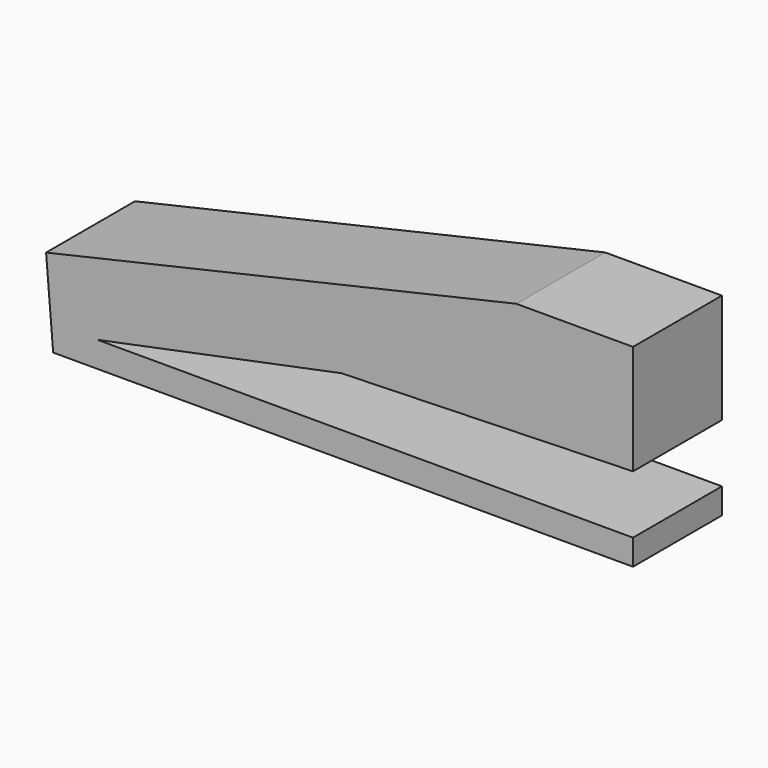
from build123d import *

# Parameters (mm, degrees)
F1_DEPTH = 29.02078


with BuildPart() as f1:
    # F0 (on Front) → F1 (new body)
    with BuildSketch(Plane.XZ):
        Polygon((76.163344, 35.312101), (0, 19.727523), (76.163344, 21.925816), align=None)
        Polygon((-77.086538, 22.387411), (-75.240158, 0), (76.163344, 0), (76.163344, 6.693146), (-63.700259, 6.693146), (0, 19.727523), (76.163344, 35.312101), (76.163344, 50.544772), (45.698006, 50.544772), align=None)
    extrude(amount=F1_DEPTH)


solid = f1.part
